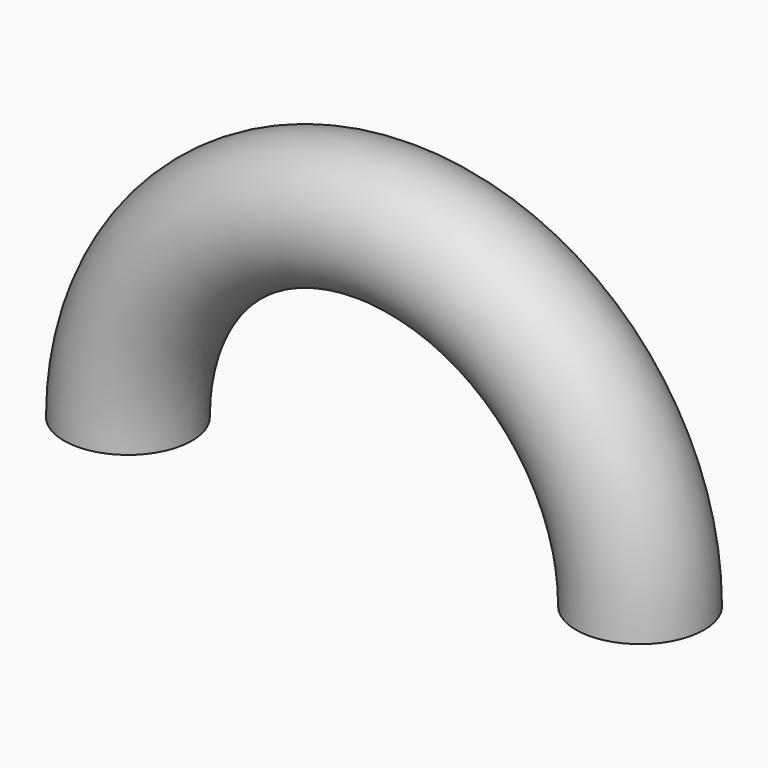
from build123d import *

# Parameters (mm, degrees)
F0_R     = 5
F1_ANGLE = 180


with BuildPart() as f1:
    # F0 (on Top) → F1 (revolve)
    with BuildSketch(Plane.XY):
        Circle(F0_R)
    revolve(axis=Axis((-20, -3.136792, 0), (0, -1, 0)), revolution_arc=F1_ANGLE)


solid = f1.part
